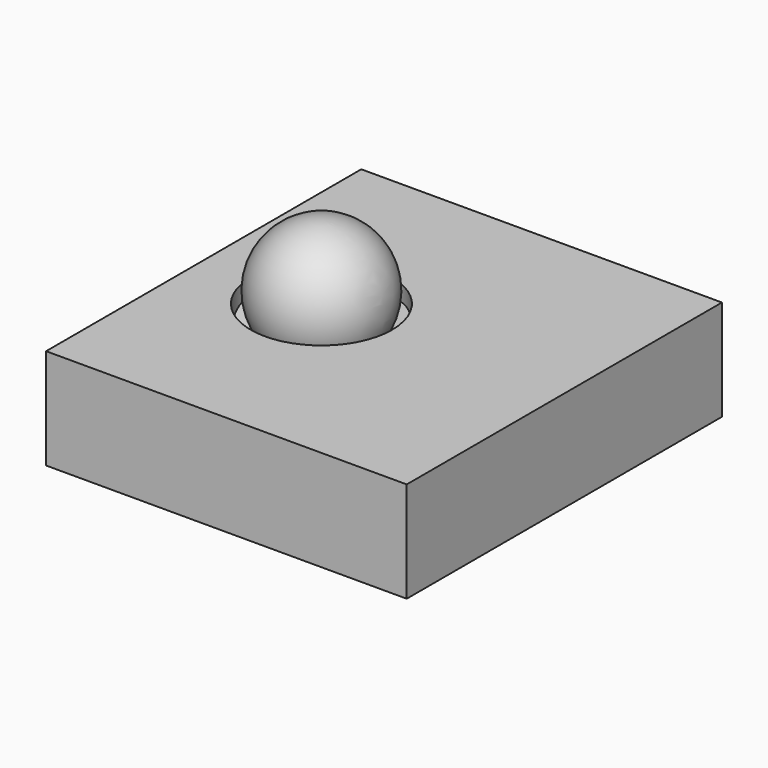
from build123d import *

# Parameters (mm, degrees)
F1_W     = 27.461335063
F1_H     = 7.6640169136
F2_DEPTH = 15
F5_R     = 5.3833305073


with BuildPart() as f2:
    # F1 (on Front) → F2 (new body, symmetric)
    with BuildSketch(Plane.XZ):
        with Locations((4.7669634223, -0.2798696514)):
            Rectangle(F1_W, F1_H)
    extrude(amount=F2_DEPTH, both=True)

    # F3 (on face) → F4 section 0
    with BuildSketch(Plane.XY.offset(3.5521388054), mode=Mode.PRIVATE) as f4_s0:
        Polygon((-6.7351920908, 11.6656949), (-6.7351920908, -11.6656949), (13.4703841816, 0), align=None)
    loft([f4_s0.sketch, Vertex(0, 0, -2.3034810466)], mode=Mode.SUBTRACT)

    # F5 (on face) → F6 (join, up to the next surface of F2)
    with BuildSketch(Plane.XY.offset(3.5521388054)):
        Polygon((-6.7351920908, 11.6656949), (-6.7351920908, -11.6656949), (13.4703841816, 0), align=None)
        Circle(F5_R, mode=Mode.SUBTRACT)
    extrude(until=Until.NEXT, dir=(0, 0, -1))


with BuildPart() as f7:
    # F0 (on Front) → F7 (revolve)
    with BuildSketch(Plane.XZ):
        with BuildLine():
            Line((0, 9.1942110442), (0, 4.4317110442))
            Line((0, 4.4317110442), (0, -0.3307889558))
            ThreePointArc((0, -0.3307889558), (4.7625, 4.4317110442), (0, 9.1942110442))
        make_face()
    revolve(axis=Axis((0, 0, 10.9121449929), (0, 0, 1)))


solid = Compound([f2.part, f7.part])
